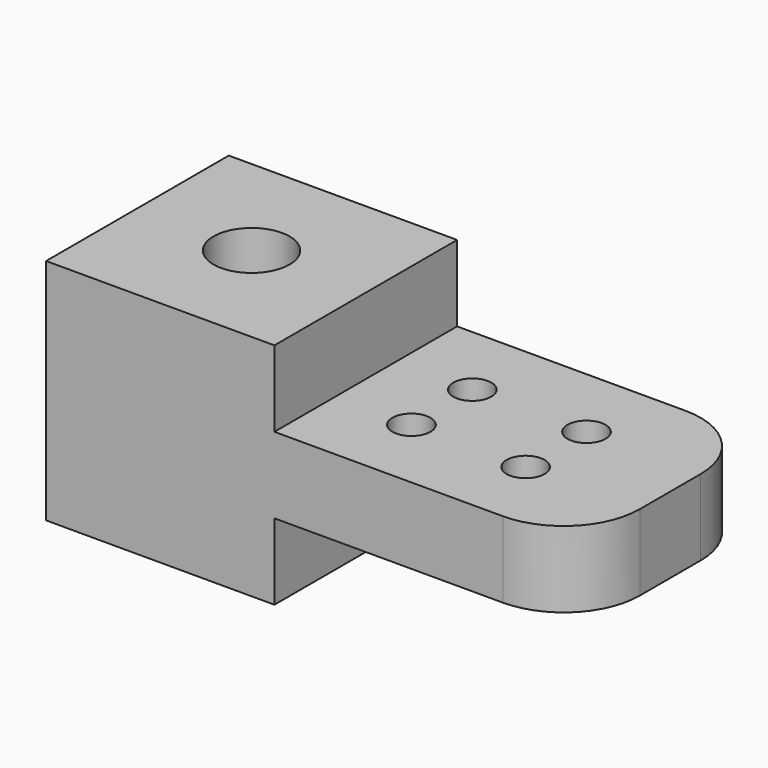
from build123d import *

# Parameters (mm, degrees)
F0_W     = 38.1
F0_H     = 38.1
F0_R     = 6.35
F1_DEPTH = 38.1
F2_W     = 38.1
F2_H     = 12.7
F3_DEPTH = 50.8
F4_R     = 12.7
F5_R     = 12.7
F6_R     = 3.175
F7_DEPTH = 25.401


with BuildPart() as f1:
    # F0 (on Top) → F1 (new body)
    with BuildSketch(Plane.XY):
        with Locations((19.05, 19.05)):
            Rectangle(F0_W, F0_H)
        with Locations((19.05, 19.05)):
            Circle(F0_R, mode=Mode.SUBTRACT)
    extrude(amount=F1_DEPTH)

    # F2 (on face) → F3 (join)
    with BuildSketch(Plane.YZ.offset(38.1)):
        with Locations((19.05, 19.05)):
            Rectangle(F2_W, F2_H)
    extrude(amount=F3_DEPTH)

    # F4
    f4_edges = [f1.edges().sort_by_distance(p)[0] for p in [
        (88.9, 38.1, 19.05),
    ]]
    fillet(f4_edges, radius=F4_R)

    # F5
    f5_edges = [f1.edges().sort_by_distance(p)[0] for p in [
        (88.9, 0, 19.05),
    ]]
    fillet(f5_edges, radius=F5_R)

    # F6 (on face) → F7 (cut, through all)
    with BuildSketch(Plane.XY.offset(25.4)):
        with Locations((50.8, 25.4)):
            Circle(F6_R)
        with Locations((69.85, 25.4)):
            Circle(F6_R)
        with Locations((50.8, 12.7)):
            Circle(F6_R)
        with Locations((69.85, 12.7)):
            Circle(F6_R)
    extrude(amount=-F7_DEPTH, mode=Mode.SUBTRACT)


solid = f1.part
